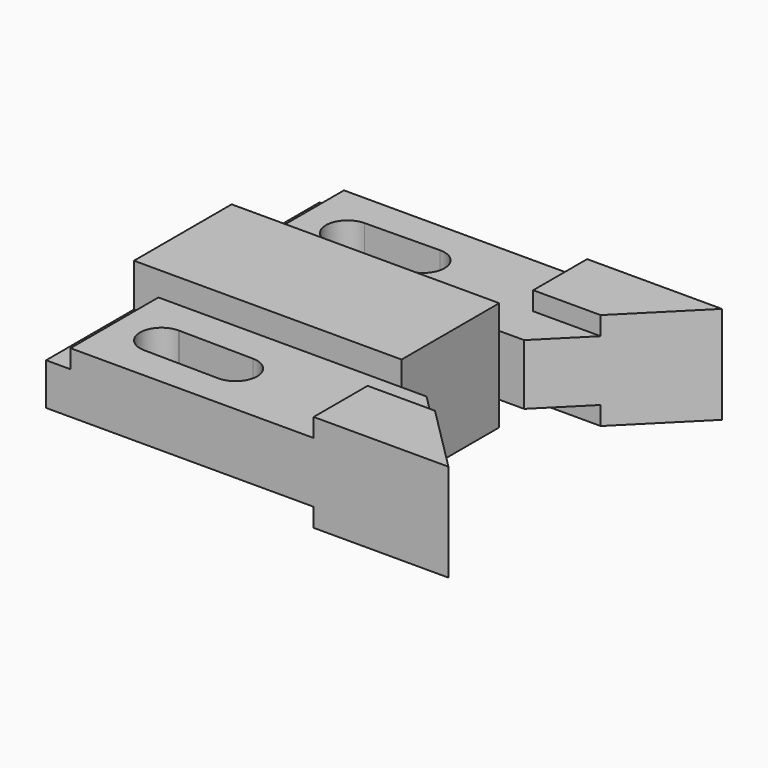
from build123d import *

# Parameters (mm, degrees)
F1_DEPTH      = 14.224
F2_DEPTH      = 7.874
F3_DEPTH      = 12.7
F0_W          = 6.35
F0_H          = 28.575
F4_DEPTH      = 3.048
F4_DEPTH_BACK = 7.874


with BuildPart() as f1:
    # F0 (on Top) → F1 (new body, symmetric)
    with BuildSketch(Plane.XY):
        Polygon((0, 0), (0, 15.875), (-31.492241, 15.875), (-50.951816, 15.875), (-63.246, 15.875), (-69.596, 15.875), (-69.596, 0), (-69.596, -15.875), (-63.246, -15.875), (-50.951816, -15.875), (-31.492241, -15.875), (0, -15.875), align=None)
    extrude(amount=F1_DEPTH, both=True)

    # F0 (on Top) → F2 (join, symmetric)
    with BuildSketch(Plane.XY):
        Polygon((-31.492241, 15.875), (0, 15.875), (6.477, 15.875), (17.526, 26.924), (0, 26.924), (0, 44.45), (-63.246, 44.45), (-63.246, 15.875), (-50.951816, 15.875), align=None)
        with BuildLine():
            ThreePointArc((-50.951816, 24.638), (-56.539816, 30.226), (-50.951816, 35.814))
            Line((-50.951816, 35.814), (-31.565, 36.066451))
            ThreePointArc((-31.565, 36.066451), (-25.904713, 30.551549), (-31.419752, 24.891395))
            Line((-31.419752, 24.891395), (-50.806851, 24.639881))
            ThreePointArc((-50.806851, 24.639881), (-50.879328, 24.63847), (-50.951816, 24.638))
        make_face(mode=Mode.SUBTRACT)
        Polygon((6.477, -15.875), (0, -15.875), (-31.492241, -15.875), (-50.951816, -15.875), (-63.246, -15.875), (-63.246, -44.45), (0, -44.45), (0, -26.924), (17.526, -26.924), align=None)
        with BuildLine():
            Line((-31.565, -36.066451), (-50.951816, -35.814))
            ThreePointArc((-50.951816, -35.814), (-56.539816, -30.226), (-50.951816, -24.638))
            ThreePointArc((-50.951816, -24.638), (-50.879328, -24.63847), (-50.806851, -24.639881))
            Line((-50.806851, -24.639881), (-31.419752, -24.891395))
            ThreePointArc((-31.419752, -24.891395), (-25.904713, -30.551549), (-31.565, -36.066451))
        make_face(mode=Mode.SUBTRACT)
    extrude(amount=F2_DEPTH, both=True)

    # F0 (on Top) → F3 (join, symmetric)
    with BuildSketch(Plane.XY):
        Polygon((0, 26.924), (17.526, 26.924), (35.052, 44.45), (0, 44.45), align=None)
        Polygon((35.052, -44.45), (17.526, -26.924), (0, -26.924), (0, -44.45), align=None)
    extrude(amount=F3_DEPTH, both=True)

    # F0 (on Top) → F4 (join, two sides)
    with BuildSketch(Plane.XY) as f4_sk:
        with Locations((-66.421, 30.1625)):
            Rectangle(F0_W, F0_H)
        with Locations((-66.421, -30.1625)):
            Rectangle(F0_W, F0_H)
    extrude(amount=F4_DEPTH)
    extrude(f4_sk.sketch, amount=-F4_DEPTH_BACK)


solid = f1.part
